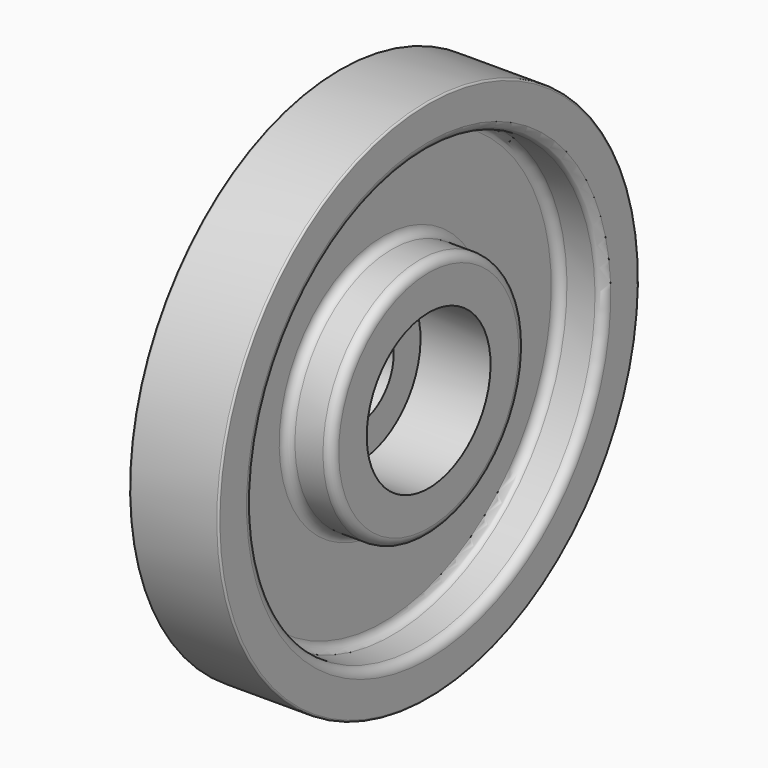
from build123d import *


with BuildPart() as f1:
    # F0 (on Front) → F1 (revolve)
    with BuildSketch(Plane.XZ):
        with BuildLine():
            Line((12.7, 38.1), (0.254, 38.1))
            ThreePointArc((0.254, 38.1), (0.074395, 38.025605), (0, 37.846))
            Line((0, 37.846), (0, 6.35))
            Line((0, 6.35), (2.794, 6.35))
            Line((2.794, 6.35), (2.794, 11.2268))
            Line((2.794, 11.2268), (12.954, 11.2268))
            Line((12.954, 11.2268), (12.954, 16.3068))
            ThreePointArc((12.954, 16.3068), (12.582026, 17.204826), (11.684, 17.5768))
            Line((11.684, 17.5768), (7.62, 17.5768))
            ThreePointArc((7.62, 17.5768), (6.721974, 17.948774), (6.35, 18.8468))
            Line((6.35, 18.8468), (6.35, 30.48))
            ThreePointArc((6.35, 30.48), (6.721974, 31.378026), (7.62, 31.75))
            Line((7.62, 31.75), (11.684, 31.75))
            ThreePointArc((11.684, 31.75), (12.582026, 32.121974), (12.954, 33.02))
            Line((12.954, 33.02), (12.954, 37.846))
            ThreePointArc((12.954, 37.846), (12.879605, 38.025605), (12.7, 38.1))
        make_face()
    revolve(axis=Axis((23.369942, 0, 0), (1, 0, 0)))


solid = f1.part
